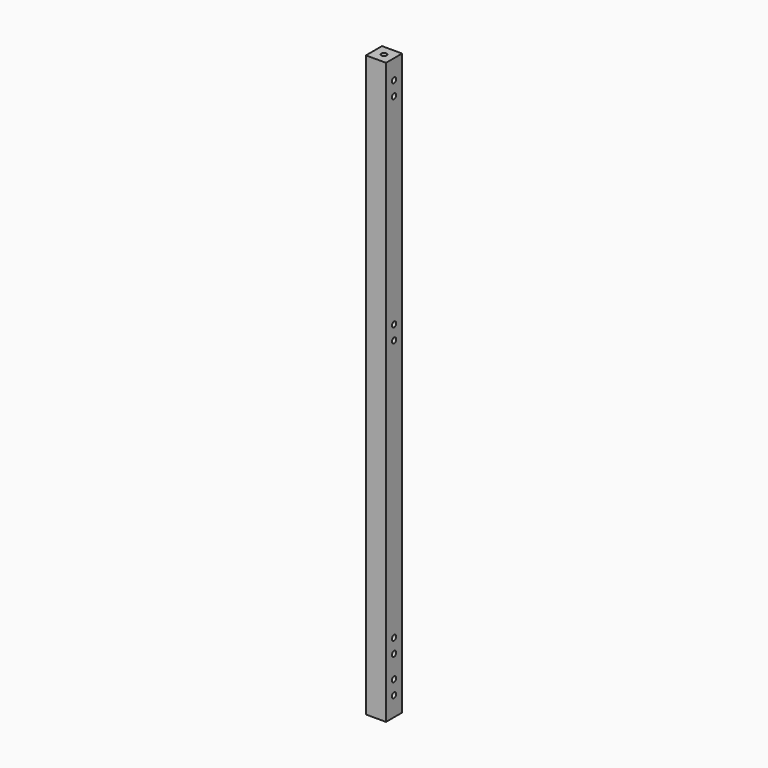
from build123d import *

# Parameters (mm, degrees)
SKETCH_W     = 11.4
SKETCH_H     = 11.4
SKETCH_R     = 1.5
PAD_DEPTH    = 328.85
SKETCH001_R  = 1.5
POCKET_DEPTH = 11.401


with BuildPart() as part:
    # Sketch → Pad (new body)
    with BuildSketch(Plane.XY):
        with Locations((5.7, 5.7)):
            Rectangle(SKETCH_W, SKETCH_H)
        with Locations((5.7, 5.7)):
            Circle(SKETCH_R, mode=Mode.SUBTRACT)
    extrude(amount=PAD_DEPTH)

    # Sketch001 → Pocket (cut, through all)
    with BuildSketch(Plane.YZ.offset(11.4)):
        with Locations((5.7, 39.65)):
            Circle(SKETCH001_R)
        with Locations((5.7, 31.65)):
            Circle(SKETCH001_R)
        with Locations((5.7, 19)):
            Circle(SKETCH001_R)
        with Locations((5.7, 11)):
            Circle(SKETCH001_R)
        with Locations((5.7, 196)):
            Circle(SKETCH001_R)
        with Locations((5.7, 188)):
            Circle(SKETCH001_R)
        with Locations((5.7, 317.85)):
            Circle(SKETCH001_R)
        with Locations((5.7, 309.85)):
            Circle(SKETCH001_R)
    extrude(amount=-POCKET_DEPTH, mode=Mode.SUBTRACT)


solid = part.part
